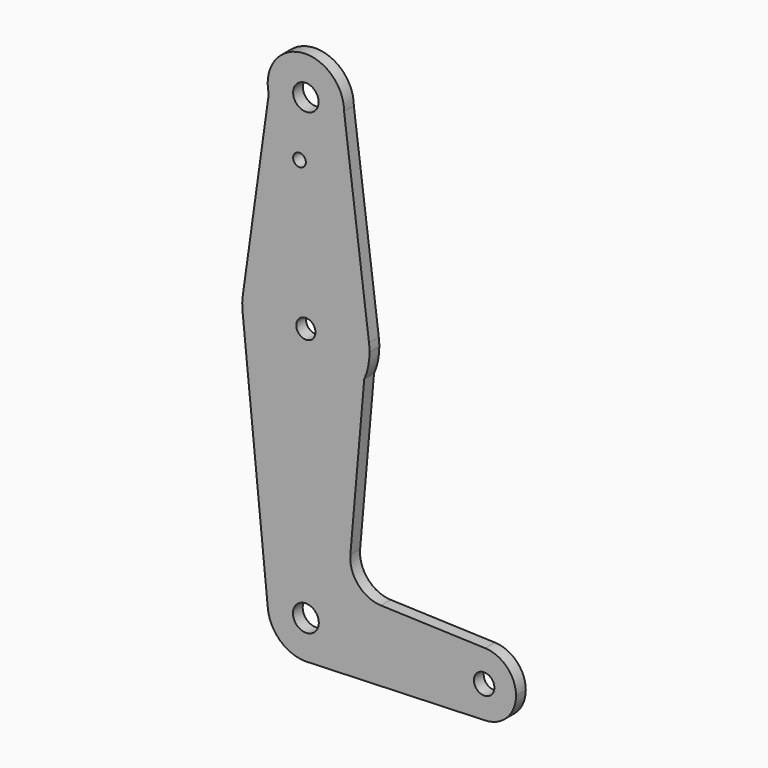
from build123d import *

# Parameters (mm, degrees)
F0_R     = 3.175
F0_R_2   = 1.5875
F0_R_3   = 2.396893
F0_R_4   = 3.225909
F0_R_5   = 2.556823
F1_DEPTH = 3.048


with BuildPart() as f1:
    # F0 (on Front) → F1 (new body)
    with BuildSketch(Plane.XZ):
        with BuildLine():
            ThreePointArc((-9.251717, 48.534751), (1.140837, 41.343567), (9.525, 50.8))
            ThreePointArc((9.525, 50.8), (-1.140837, 60.256433), (-9.251717, 48.534751))
        make_face()
        with Locations((0, 50.8)):
            Circle(F0_R, mode=Mode.SUBTRACT)
        with BuildLine():
            Line((15.747457, 2.008289), (9.525, 50.8))
            ThreePointArc((9.525, 50.8), (1.140837, 41.343567), (-9.251717, 48.534751))
            Line((-9.251717, 48.534751), (-15.722455, 2.195456))
            ThreePointArc((-15.722455, 2.195456), (0.094415, 15.874719), (15.747457, 2.008289))
        make_face()
        with Locations((-1.5875, 36.5252)):
            Circle(F0_R_2, mode=Mode.SUBTRACT)
        with BuildLine():
            ThreePointArc((15.875, 0), (15.843082, 1.006168), (15.747457, 2.008289))
            ThreePointArc((15.747457, 2.008289), (0.094415, 15.874719), (-15.722455, 2.195456))
            ThreePointArc((-15.722455, 2.195456), (-15.872979, -0.253332), (-15.644387, -2.696069))
            ThreePointArc((-15.644387, -2.696069), (-1.907197, -15.76002), (14.549678, -6.35))
            ThreePointArc((14.549678, -6.35), (15.540138, -3.243416), (15.875, 0))
        make_face()
        Circle(F0_R_3, mode=Mode.SUBTRACT)
        with BuildLine():
            ThreePointArc((14.549678, -6.35), (-1.907197, -15.76002), (-15.644387, -2.696069))
            Line((-15.644387, -2.696069), (-9.477859, -64.446479))
            ThreePointArc((-9.477859, -64.446479), (-0.473826, -53.986793), (9.525, -63.5))
            ThreePointArc((9.525, -63.5), (6.970557, -69.991299), (0.677344, -73.000886))
            Line((0.677344, -73.000886), (44.732405, -71.432475))
            ThreePointArc((44.732405, -71.432475), (36.5125, -63.5), (44.732405, -55.567525))
            Line((44.732405, -55.567525), (18.72552, -54.64165))
            ThreePointArc((18.72552, -54.64165), (13.052766, -51.963018), (11.088292, -46.005162))
            Line((11.088292, -46.005162), (14.549678, -6.35))
        make_face()
        with BuildLine():
            ThreePointArc((9.525, -63.5), (-0.473826, -53.986793), (-9.477859, -64.446479))
            ThreePointArc((-9.477859, -64.446479), (-6.391808, -70.561899), (0, -73.025))
            Line((0, -73.025), (0.677344, -73.000886))
            ThreePointArc((0.677344, -73.000886), (6.970557, -69.991299), (9.525, -63.5))
        make_face()
        with Locations((0, -63.5)):
            Circle(F0_R_4, mode=Mode.SUBTRACT)
        with BuildLine():
            Line((0.677344, -73.000886), (0, -73.025))
            ThreePointArc((0, -73.025), (0.338886, -73.01897), (0.677344, -73.000886))
        make_face()
        with BuildLine():
            ThreePointArc((52.3875, -63.5), (50.161633, -57.98809), (44.732405, -55.567525))
            ThreePointArc((44.732405, -55.567525), (36.5125, -63.5), (44.732405, -71.432475))
            ThreePointArc((44.732405, -71.432475), (50.161633, -69.01191), (52.3875, -63.5))
        make_face()
        with Locations((44.45, -63.5)):
            Circle(F0_R_5, mode=Mode.SUBTRACT)
    extrude(amount=F1_DEPTH)


solid = f1.part
